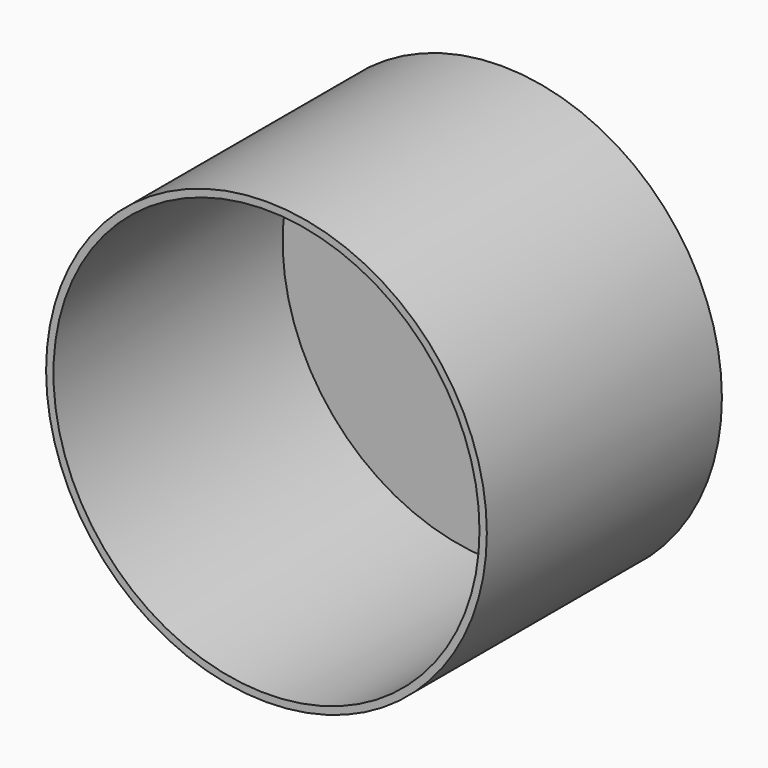
from build123d import *

# Parameters (mm, degrees)
F0_R     = 190.5
F1_DEPTH = 254
F2_R     = 184.149995
F3_DEPTH = 247.65
F4_R     = 12.7
F5_DEPTH = 254.001


with BuildPart() as f1:
    # F0 (on Front) → F1 (new body)
    with BuildSketch(Plane.XZ):
        Circle(F0_R)
    extrude(amount=F1_DEPTH)

    # F2 (on face) → F3 (cut)
    with BuildSketch(Plane.XZ.offset(254)):
        Circle(F2_R)
    extrude(amount=-F3_DEPTH, mode=Mode.SUBTRACT)

    # F4 (on face) → F5 (cut, through all)
    with BuildSketch(Plane(origin=(0, 0, 0), x_dir=(-1, 0, 0), z_dir=(0, 1, 0))):
        Circle(F4_R)
    extrude(amount=-F5_DEPTH, mode=Mode.SUBTRACT)


solid = f1.part
